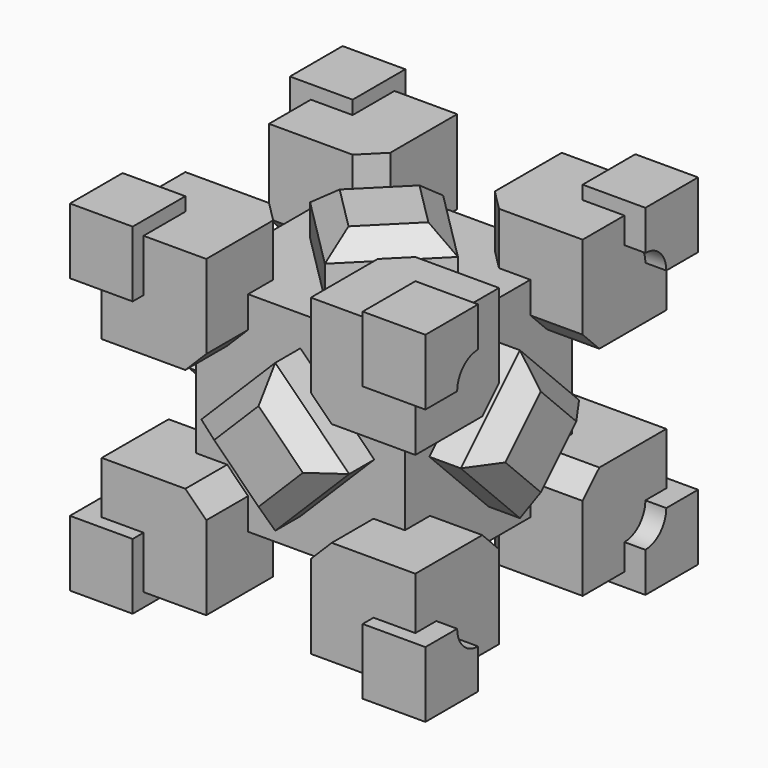
from build123d import *

# Parameters (mm, degrees)
F0_W           = 50.8
F0_H           = 50.8
F1_DEPTH       = 25.4
F1_DEPTH_BACK  = 25.4
F2_W           = 25.4
F2_H           = 25.4
F3_DEPTH       = 12.7
F3_DEPTH_BACK  = 12.7
F6_DEPTH       = 12.7
F6_DEPTH_BACK  = 12.7
F9_DEPTH       = 12.7
F9_DEPTH_BACK  = 12.7
F11_DEPTH      = 5.08
F11_DEPTH_BACK = 10.16
F16_SIZE       = 5.08
F17_SIZE       = 5.08


with BuildPart() as f1:
    # F0 (on Front) → F1 (new body, two sides)
    with BuildSketch(Plane.XZ) as f1_sk:
        Rectangle(F0_W, F0_H)
    extrude(amount=F1_DEPTH)
    extrude(f1_sk.sketch, amount=-F1_DEPTH_BACK)

    # F2 (on face) → F3 (join, two sides)
    with BuildSketch(Plane.XZ.offset(25.4)) as f3_sk:
        with Locations((-25.4, 25.4)):
            Rectangle(F2_W, F2_H)
        with Locations((25.4, 25.4)):
            Rectangle(F2_W, F2_H)
        with Locations((25.4, -25.4)):
            Rectangle(F2_W, F2_H)
        with Locations((-25.4, -25.4)):
            Rectangle(F2_W, F2_H)
        Polygon((17.9605122421, 0), (0, 17.9605122421), (-17.9605122421, 0), (0, -17.9605122421), align=None)
    extrude(amount=F3_DEPTH)
    extrude(f3_sk.sketch, amount=-F3_DEPTH_BACK)

    # F4: F1 across plane


with BuildPart() as f1_1:
    add(f1.part)
    add(f1.part.mirror(Plane.XZ))

    # F5 (on face) → F6 (join, two sides)
    with BuildSketch(Plane(origin=(0, 0, -25.4), x_dir=(1, 0, 0), z_dir=(0, 0, -1))) as f6_sk:
        Polygon((17.9605122421, 0), (0, 17.9605122421), (-17.9605122421, 0), (0, -17.9605122421), align=None)
    extrude(amount=F6_DEPTH)
    extrude(f6_sk.sketch, amount=-F6_DEPTH_BACK)

    # F7: F1 across plane


with BuildPart() as f1_2:
    add(f1_1.part)
    add(f1_1.part.mirror(Plane.XY))

    # F8 (on face) → F9 (join, two sides)
    with BuildSketch(Plane(origin=(-25.4, 0, 0), x_dir=(0, -1, 0), z_dir=(-1, 0, 0))) as f9_sk:
        Polygon((17.9605122421, 0), (0, 17.9605122421), (-17.9605122421, 0), (0, -17.9605122421), align=None)
    extrude(amount=F9_DEPTH)
    extrude(f9_sk.sketch, amount=-F9_DEPTH_BACK)

    # F10 (on face) → F11 (join, two sides)
    with BuildSketch(Plane(origin=(-38.1, 0, 0), x_dir=(0, -1, 0), z_dir=(-1, 0, 0))) as f11_sk:
        Polygon((-38.1, -38.1), (-38.1, -25.4), (-41.402, -25.4), (-41.402, -38.1), (-41.402, -41.402), (-38.1, -41.402), (-25.4, -41.402), (-25.4, -38.1), align=None)
        with BuildLine():
            Line((-31.75, -25.4), (-38.1, -25.4))
            Line((-38.1, -25.4), (-38.1, -38.1))
            Line((-38.1, -38.1), (-25.4, -38.1))
            Line((-25.4, -38.1), (-25.4, -31.75))
            ThreePointArc((-25.4, -31.75), (-29.8901280605, -29.8901280605), (-31.75, -25.4))
        make_face()
    extrude(amount=F11_DEPTH)
    extrude(f11_sk.sketch, amount=-F11_DEPTH_BACK)

    # F12: F1 across plane


with BuildPart() as f1_3:
    add(f1_2.part)
    add(f1_2.part.mirror(Plane.YZ))

    # F13: F1 across plane


with BuildPart() as f1_4:
    add(f1_3.part)
    add(f1_3.part.mirror(Plane.XY))

    # F14: F1 across plane


with BuildPart() as f1_5:
    add(f1_4.part)
    add(f1_4.part.mirror(Plane.XZ))

    # F15: F1 across plane


with BuildPart() as f1_6:
    add(f1_5.part)
    add(f1_5.part.mirror(Plane.YZ), mode=Mode.INTERSECT)

    # F16
    f16_edges = [f1_6.edges().sort_by_distance(p)[0] for p in [
        (12.7, 12.7, -31.75),
        (12.7, -12.7, -31.75),
        (-12.7, -12.7, -31.75),
        (-12.7, 12.7, -31.75),
        (-12.7, 31.75, -12.7),
        (12.7, 31.75, 12.7),
        (-12.7, 31.75, 12.7),
        (31.75, 12.7, 12.7),
        (31.75, -12.7, 12.7),
        (31.75, -12.7, -12.7),
        (31.75, 12.7, -12.7),
        (-12.7, -12.7, 31.75),
        (-12.7, 12.7, 31.75),
        (12.7, -31.75, 12.7),
        (-12.7, -31.75, -12.7),
        (12.7, -31.75, -12.7),
        (12.7, 12.7, 31.75),
        (12.7, -12.7, 31.75),
        (-31.75, 12.7, -12.7),
        (-31.75, 12.7, 12.7),
        (-31.75, -12.7, -12.7),
        (-31.75, -12.7, 12.7),
        (-12.7, -31.75, 12.7),
    ]]
    chamfer(f16_edges, length=F16_SIZE)

    # F17
    f17_edges = [f1_6.edges().sort_by_distance(p)[0] for p in [
        (-38.1, 8.980256, -8.980256),
        (-38.1, -8.980256, -8.980256),
        (-38.1, -8.980256, 8.980256),
        (-38.1, 8.980256, 8.980256),
        (8.980256, -8.980256, -38.1),
        (-8.980256, -8.980256, -38.1),
        (-8.980256, 8.980256, -38.1),
        (8.980256, 8.980256, -38.1),
        (8.980256, 38.1, 8.980256),
        (-8.980256, 38.1, 8.980256),
        (-8.980256, 38.1, -8.980256),
        (8.980256, 38.1, -8.980256),
        (8.980256, -8.980256, 38.1),
        (-8.980256, -8.980256, 38.1),
        (-8.980256, 8.980256, 38.1),
        (8.980256, 8.980256, 38.1),
        (38.1, 8.980256, -8.980256),
        (38.1, -8.980256, -8.980256),
        (38.1, -8.980256, 8.980256),
        (38.1, 8.980256, 8.980256),
        (8.980256, -38.1, 8.980256),
        (-8.980256, -38.1, 8.980256),
        (-8.980256, -38.1, -8.980256),
        (8.980256, -38.1, -8.980256),
    ]]
    chamfer(f17_edges, length=F17_SIZE)


solid = f1_6.part
